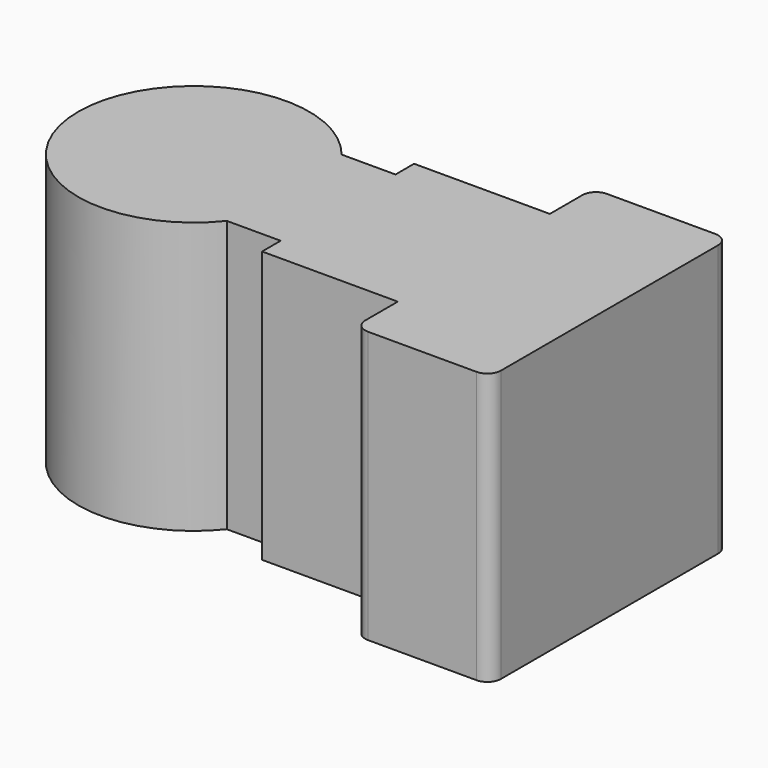
from build123d import *

# Parameters (mm, degrees)
F1_DEPTH = 10
F3_DEPTH = 10


with BuildPart() as f1:
    # F0 (on Top) → F1 (new body)
    with BuildSketch(Plane.XY):
        with BuildLine():
            Line((0, -5), (0, 0))
            Line((0, 0), (0, 5))
            ThreePointArc((0, 5), (-0.146447, 5.353553), (-0.5, 5.5))
            Line((-0.5, 5.5), (-4.5, 5.5))
            ThreePointArc((-4.5, 5.5), (-4.853553, 5.353553), (-5, 5))
            Line((-5, 5), (-5, 3.5))
            Line((-5, 3.5), (-10, 3.5))
            Line((-10, 3.5), (-10, 0))
            Line((-10, 0), (-10, -3.5))
            Line((-10, -3.5), (-5, -3.5))
            Line((-5, -3.5), (-5, -5))
            ThreePointArc((-5, -5), (-4.853553, -5.353553), (-4.5, -5.5))
            Line((-4.5, -5.5), (-0.5, -5.5))
            ThreePointArc((-0.5, -5.5), (-0.146447, -5.353553), (0, -5))
        make_face()
    extrude(amount=F1_DEPTH)

    # F2 (on Top) → F3 (join)
    with BuildSketch(Plane.XY):
        with BuildLine():
            Line((-12.59485, 2.643937), (-11.983608, 2.643937))
            ThreePointArc((-11.983608, 2.643937), (-19.570835, 0), (-11.983608, -2.643937))
            Line((-11.983608, -2.643937), (-12.59485, -2.643937))
            Line((-12.59485, -2.643937), (-12.59485, 2.643937))
        make_face()
        with BuildLine():
            ThreePointArc((-11.983608, -2.643937), (-11.299202, -1.399934), (-11.06227, 0))
            ThreePointArc((-11.06227, 0), (-11.299202, 1.399934), (-11.983608, 2.643937))
            Line((-11.983608, 2.643937), (-12.59485, 2.643937))
            Line((-12.59485, 2.643937), (-12.59485, -2.643937))
            Line((-12.59485, -2.643937), (-11.983608, -2.643937))
        make_face()
        with BuildLine():
            ThreePointArc((-11.983608, 2.643937), (-11.299202, 1.399934), (-11.06227, 0))
            ThreePointArc((-11.06227, 0), (-11.299202, -1.399934), (-11.983608, -2.643937))
            Line((-11.983608, -2.643937), (-8.551176, -2.643937))
            Line((-8.551176, -2.643937), (-8.551176, 2.643937))
            Line((-8.551176, 2.643937), (-11.983608, 2.643937))
        make_face()
    extrude(amount=F3_DEPTH)


solid = f1.part
